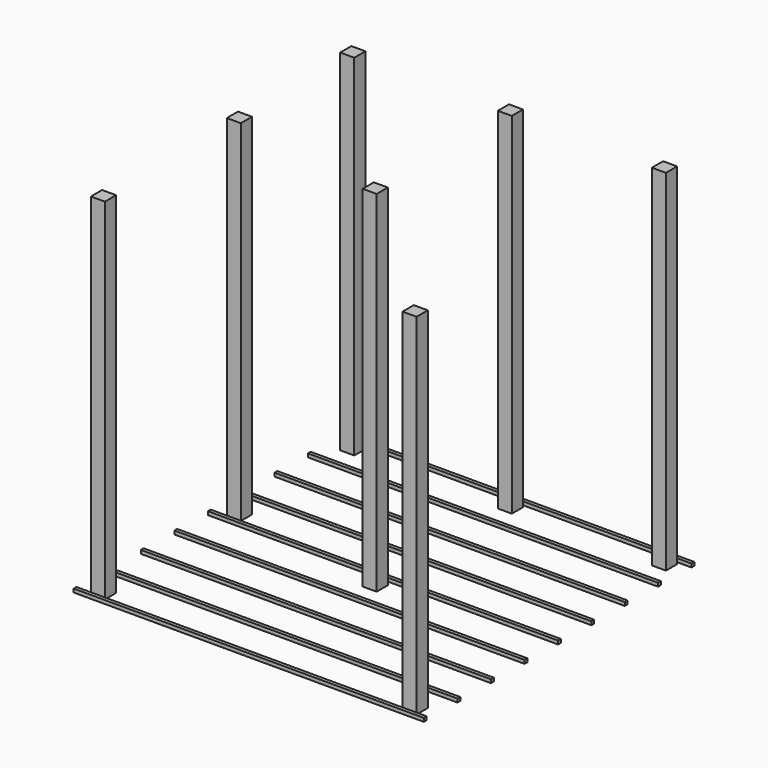
from build123d import *

# Parameters (mm, degrees)
F0_W          = 80
F0_H          = 80
F1_DEPTH      = 2000
F2_W          = 20
F2_H          = 20
F3_DEPTH      = 1930
F3_DEPTH_BACK = 70


with BuildPart() as f1:
    # F0 (on Top) → F1 (new body)
    with BuildSketch(Plane.XY):
        with Locations((940, 558.728556)):
            Rectangle(F0_W, F0_H)
        with Locations((40, 558.728556)):
            Rectangle(F0_W, F0_H)
        with Locations((40, -251.271444)):
            Rectangle(F0_W, F0_H)
        with Locations((40, -1221.271444)):
            Rectangle(F0_W, F0_H)
        with Locations((940, -406.271444)):
            Rectangle(F0_W, F0_H)
        with Locations((1820, 558.728556)):
            Rectangle(F0_W, F0_H)
        with Locations((1820, -1221.271444)):
            Rectangle(F0_W, F0_H)
    extrude(amount=F1_DEPTH)


with BuildPart() as f3:
    # F2 (on Right) → F3 (new body, two sides)
    with BuildSketch(Plane.YZ) as f3_sk:
        with Locations((-1286.271444, 10)):
            Rectangle(F2_W, F2_H)
        with Locations((-1046.896444, 10)):
            Rectangle(F2_W, F2_H)
        with Locations((-807.521444, 10)):
            Rectangle(F2_W, F2_H)
        with Locations((-568.146444, 10)):
            Rectangle(F2_W, F2_H)
        with Locations((-328.771444, 10)):
            Rectangle(F2_W, F2_H)
        with Locations((-90.646444, 10)):
            Rectangle(F2_W, F2_H)
        with Locations((147.478556, 10)):
            Rectangle(F2_W, F2_H)
        with Locations((385.603556, 10)):
            Rectangle(F2_W, F2_H)
        with Locations((623.728556, 10)):
            Rectangle(F2_W, F2_H)
    extrude(amount=F3_DEPTH)
    extrude(f3_sk.sketch, amount=-F3_DEPTH_BACK)


solid = Compound([f1.part, f3.part])
